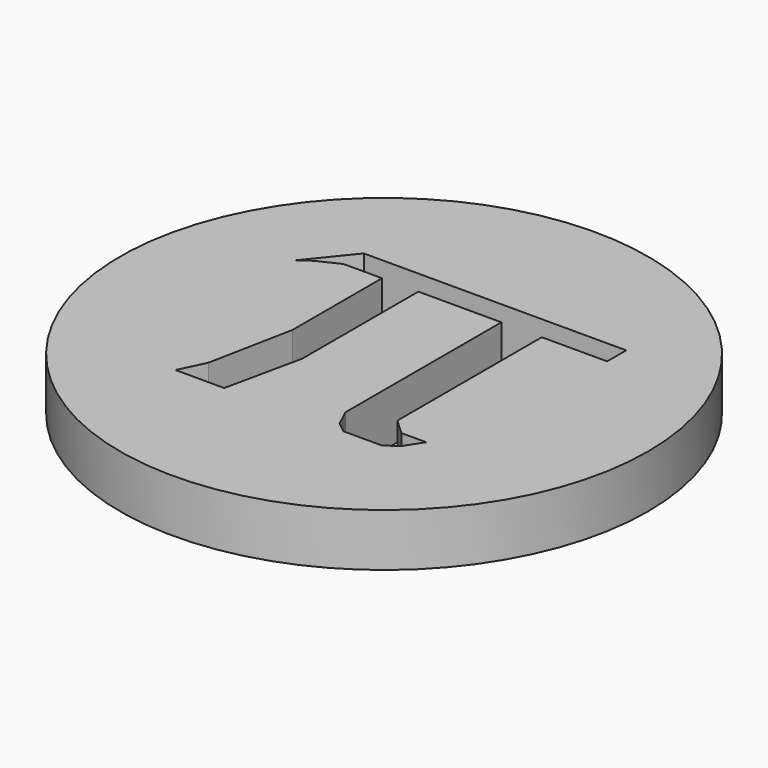
from build123d import *

# Parameters (mm, degrees)
F0_R     = 5
F1_DEPTH = 1
F3_DEPTH = 1


with BuildPart() as f1:
    # F0 (on Top) → F1 (new body)
    with BuildSketch(Plane.XY):
        Circle(F0_R)
    extrude(amount=F1_DEPTH)

    # F2 (on face) → F3 (cut)
    with BuildSketch(Plane.XY.offset(1)):
        Polygon((2.724505, 1.87636), (2.724505, 2.328303), (-2.246877, 2.328303), (-2.914967, 1.503015), (-2.679171, 1.679862), (-2.266527, 1.87636), (-1.539487, 1.87636), (-0.851746, 1.87636), (0.720232, 1.87636), (1.486571, 1.87636), align=None)
        Polygon((1.486571, -1.542693), (1.486571, 1.87636), (0.720232, 1.87636), (0.720232, -1.817789), (0.87743, -2.151834), (1.073927, -2.309032), (1.800967, -2.309032), (2.036764, -2.151834), (2.252911, -1.817789), (1.781317, -1.817789), align=None)
        Polygon((-0.851746, -0.874602), (-0.851746, 1.87636), (-1.539487, 1.87636), (-1.539487, 0.166833), (-1.539487, -0.245811), (-1.853882, -1.837439), (-2.089679, -2.328682), (-1.166142, -2.328682), align=None)
    extrude(amount=-F3_DEPTH, mode=Mode.SUBTRACT)


solid = f1.part
